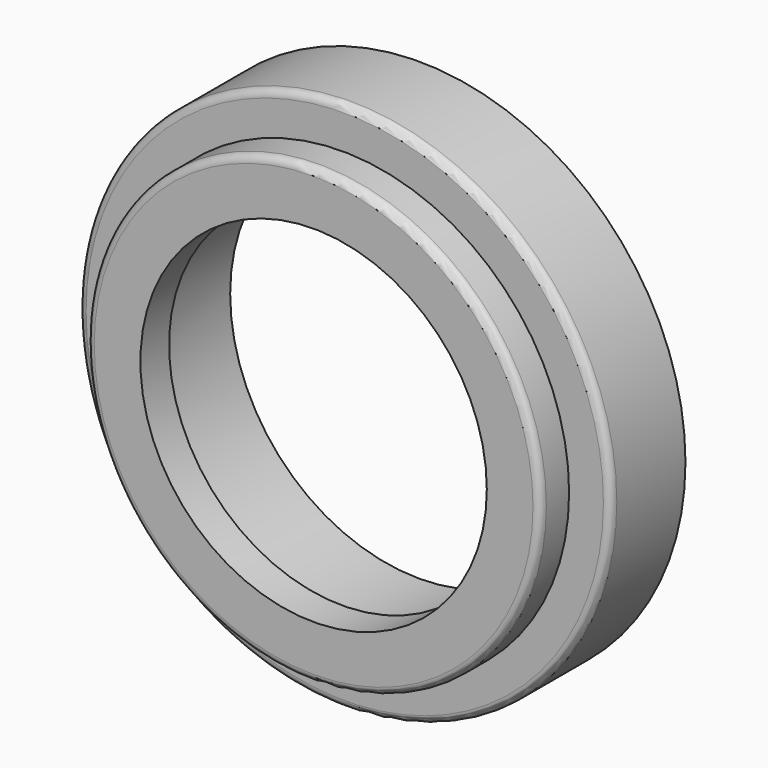
from build123d import *

# Parameters (mm, degrees)
F0_R     = 17.89
F0_R_2   = 12.72
F1_DEPTH = 3.135
F3_R     = 15.25
F3_R_2   = 11.645
F4_DEPTH = 2.41
F5_R     = 0.5


with BuildPart() as f1:
    # F0 (on Front) → F1 (new body, symmetric)
    with BuildSketch(Plane.XZ):
        with Locations((-42.8615688275, 33.3970142528)):
            Circle(F0_R)
        with Locations((-42.8615688275, 33.3970142528)):
            Circle(F0_R_2, mode=Mode.SUBTRACT)
    extrude(amount=F1_DEPTH, both=True)

    # F3 (on offset) → F4 (join)
    with BuildSketch(Plane.XZ.offset(3.135)):
        with Locations((-43.0275388062, 33.2303009927)):
            Circle(F3_R)
        with Locations((-43.0275388062, 33.2303009927)):
            Circle(F3_R_2, mode=Mode.SUBTRACT)
    extrude(amount=F4_DEPTH)

    # F5
    f5_edges = [f1.edges().sort_by_distance(p)[0] for p in [
        (-58.277539, -5.545, 33.230301),
        (-60.751569, -3.135, 33.397014),
    ]]
    fillet(f5_edges, radius=F5_R)


solid = f1.part
